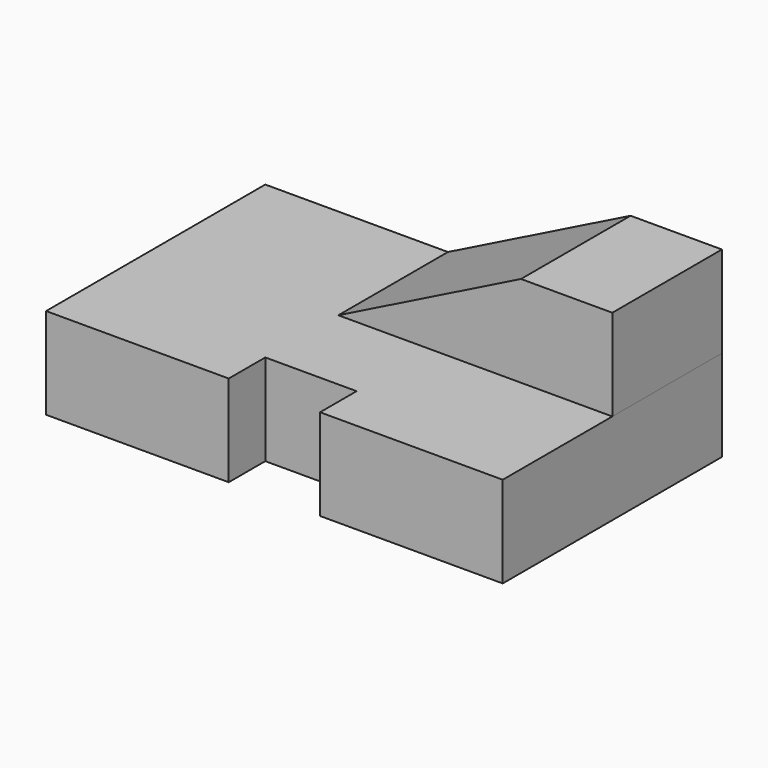
from build123d import *

# Parameters (mm, degrees)
F0_W     = 127
F0_H     = 25.4
F1_DEPTH = 38.1
F3_DEPTH = 38.1
F4_W     = 25.4
F4_H     = 12.7
F5_DEPTH = 25.401


with BuildPart() as f1:
    # F0 (on Front) → F1 (new body, symmetric)
    with BuildSketch(Plane.XZ):
        with Locations((63.5, 12.7)):
            Rectangle(F0_W, F0_H)
    extrude(amount=F1_DEPTH, both=True)

    # F4 (on face) → F5 (cut, through all)
    with BuildSketch(Plane.XY.offset(25.4)):
        with Locations((63.5, -31.75)):
            Rectangle(F4_W, F4_H)
    extrude(amount=-F5_DEPTH, mode=Mode.SUBTRACT)


with BuildPart() as f3:
    # F2 (on face) → F3 (new body)
    with BuildSketch(Plane(origin=(0, 38.1, 0), x_dir=(-1, 0, 0), z_dir=(0, 1, 0))):
        Polygon((-127, 50.8), (-127, 25.4), (-50.8, 25.4), (-101.6, 50.8), align=None)
    extrude(amount=-F3_DEPTH)


solid = Compound([f1.part, f3.part])
